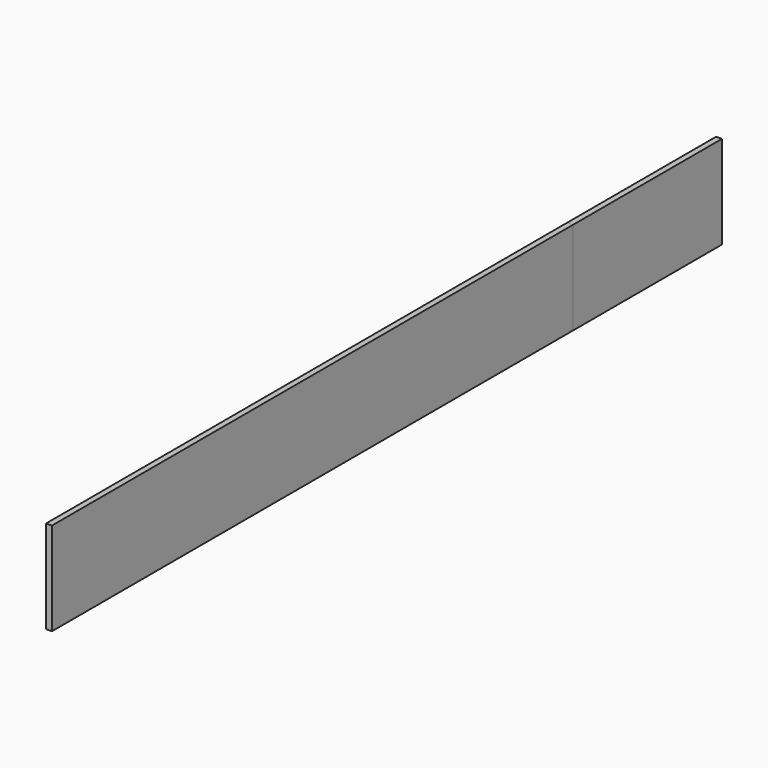
from build123d import *

# Parameters (mm, degrees)
F0_W     = 1.5875
F0_H     = 25.4
F1_DEPTH = 228.6
F2_DEPTH = 50.8
F3_DEPTH = 25.4


with BuildPart() as f1:
    # F0 (on Front) → F1 (new body)
    with BuildSketch(Plane.XZ):
        with Locations((0.79375, 12.7)):
            Rectangle(F0_W, F0_H)
    extrude(amount=F1_DEPTH)


with BuildPart() as f2:
    # F0 (on Front) → F2 (new body)
    with BuildSketch(Plane.XZ):
        with Locations((0.79375, 12.7)):
            Rectangle(F0_W, F0_H)
    extrude(amount=F2_DEPTH)


with BuildPart() as f3:
    # F0 (on Front) → F3 (new body)
    with BuildSketch(Plane.XZ):
        with Locations((0.79375, 12.7)):
            Rectangle(F0_W, F0_H)
    extrude(amount=F3_DEPTH)


solid = Compound([f1.part, f2.part])
